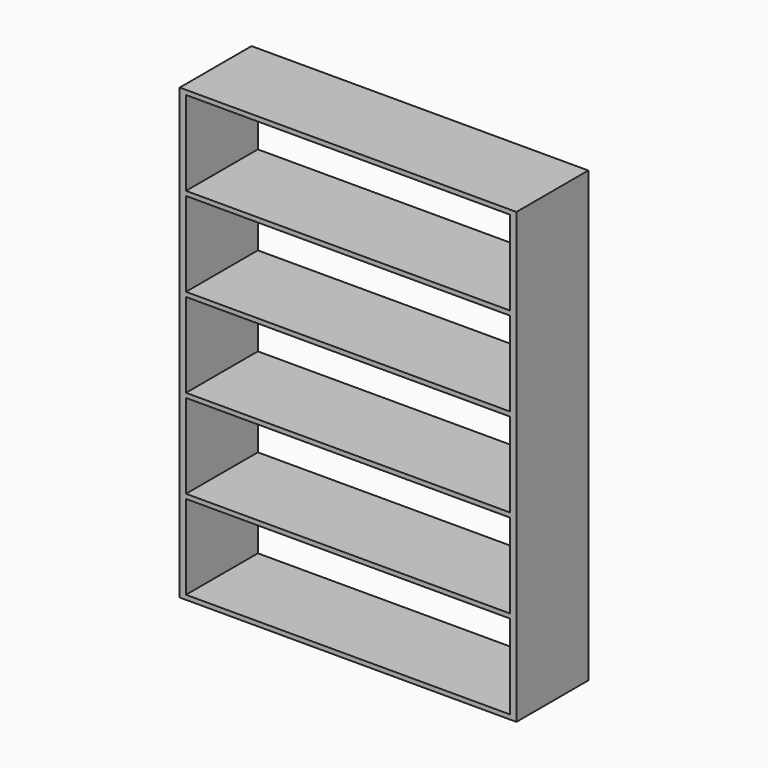
from build123d import *

# Parameters (mm, degrees)
F0_W     = 1875
F0_H     = 500
F1_DEPTH = 2500
F2_W     = 1805
F2_H     = 470
F3_DEPTH = 600


with BuildPart() as f1:
    # F0 (on Top) → F1 (new body)
    with BuildSketch(Plane.XY):
        with Locations((937.5, 250)):
            Rectangle(F0_W, F0_H)
    extrude(amount=F1_DEPTH)

    # F2 (on face) → F3 (cut)
    with BuildSketch(Plane.XZ):
        with Locations((937.5, 260)):
            Rectangle(F2_W, F2_H)
        with Locations((937.5, 755)):
            Rectangle(F2_W, F2_H)
        with Locations((937.5, 1250)):
            Rectangle(F2_W, F2_H)
        with Locations((937.5, 1745)):
            Rectangle(F2_W, F2_H)
        with Locations((937.5, 2240)):
            Rectangle(F2_W, F2_H)
    extrude(amount=-F3_DEPTH, mode=Mode.SUBTRACT)


solid = f1.part
